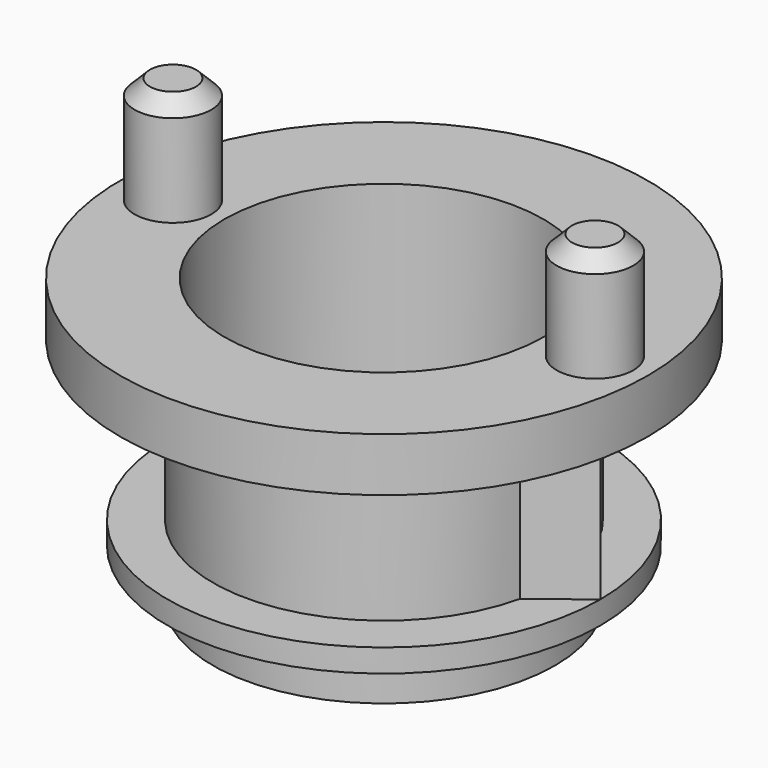
from build123d import *

# Parameters (mm, degrees)
F0_R     = 11.15
F0_R_2   = 10.4
F1_DEPTH = 18.6
F2_START = 3.25
F0_R_3   = 14.1
F2_DEPTH = 1.5
F3_R     = 17.2
F3_R_2   = 11.15
F3_R_3   = 10.4
F4_DEPTH = 3.5
F5_R     = 2.5
F6_DEPTH = 7
F7_SIZE  = 1
F9_DEPTH = 10.25


with BuildPart() as f1:
    # F0 (on Top) → F1 (new body)
    with BuildSketch(Plane.XY):
        Circle(F0_R)
        Circle(F0_R_2, mode=Mode.SUBTRACT)
    extrude(amount=F1_DEPTH)

    # F0 (on Top) → F2 (join)
    with BuildSketch(Plane.XY.offset(F2_START)):
        Circle(F0_R_3)
        Circle(F0_R, mode=Mode.SUBTRACT)
    extrude(amount=F2_DEPTH)

    # F3 (on face) → F4 (join)
    with BuildSketch(Plane.XY.offset(18.6)):
        Circle(F3_R)
        Circle(F3_R_2, mode=Mode.SUBTRACT)
        Circle(F3_R_2)
        Circle(F3_R_3, mode=Mode.SUBTRACT)
    extrude(amount=-F4_DEPTH)

    # F5 (on face) → F6 (join)
    with BuildSketch(Plane.XY.offset(18.6)):
        with Locations((13.75, 0)):
            Circle(F5_R)
        with Locations((-13.75, 0)):
            Circle(F5_R)
    extrude(amount=F6_DEPTH)

    # F7
    f7_edges = [f1.edges().sort_by_distance(p)[0] for p in [
        (-16.25, 0, 25.6),
        (11.25, 0, 25.6),
    ]]
    chamfer(f7_edges, length=F7_SIZE)

    # F8 (on face) → F9 (join)
    with BuildSketch(Plane.XY.offset(4.75)):
        with BuildLine():
            Line((10.8661170618, -2.5), (14.1, 0))
            Line((14.1, 0), (10.8661170618, 2.5))
            ThreePointArc((10.8661170618, 2.5), (11.0788019487, 1.2580331397), (11.15, 0))
            ThreePointArc((11.15, 0), (11.0788019487, -1.2580331397), (10.8661170618, -2.5))
        make_face()
        with BuildLine():
            Line((-10.8661170618, 2.5), (-14.1, 0))
            Line((-14.1, 0), (-10.8661170618, -2.5))
            ThreePointArc((-10.8661170618, -2.5), (-11.15, 0), (-10.8661170618, 2.5))
        make_face()
    extrude(amount=F9_DEPTH)


solid = f1.part
